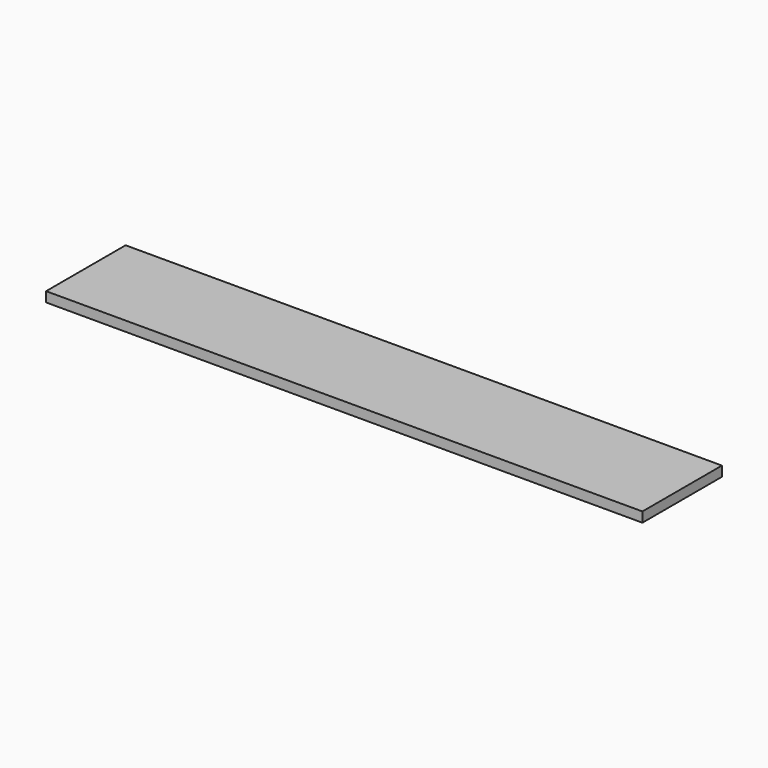
from build123d import *

# Parameters (mm, degrees)
F0_W     = 1500
F0_H     = 250
F0_W_2   = 1480
F0_H_2   = 230
F1_DEPTH = 25


with BuildPart() as f1:
    # F0 (on Top) → F1 (new body)
    with BuildSketch(Plane.XY):
        Rectangle(F0_W, F0_H)
        Rectangle(F0_W_2, F0_H_2, mode=Mode.SUBTRACT)
        Rectangle(F0_W_2, F0_H_2)
    extrude(amount=F1_DEPTH)


solid = f1.part
